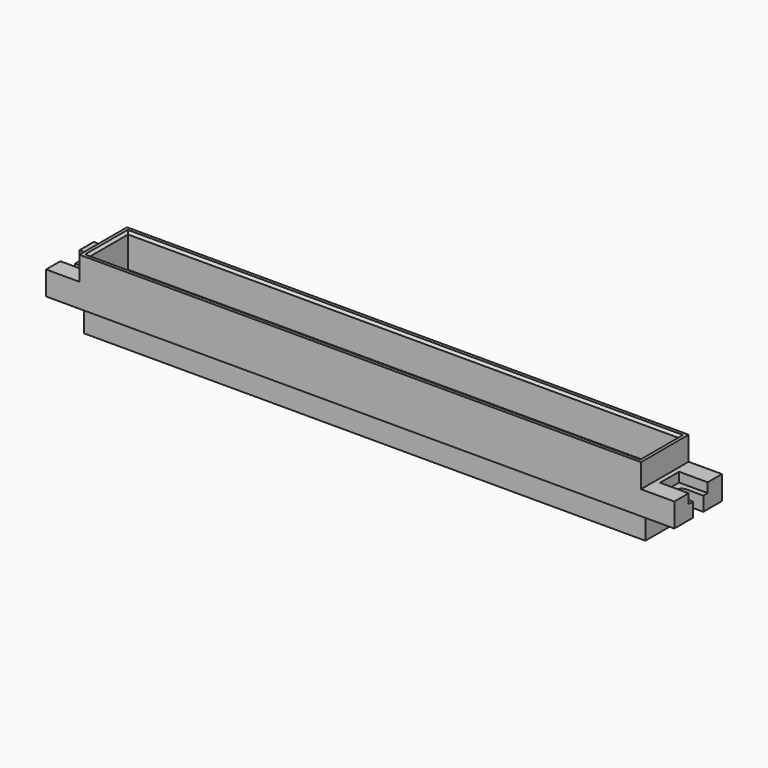
from build123d import *

# Parameters (mm, degrees)
BOX004_W          = 10
BOX004_H          = 14
BOX004_DEPTH      = 10
BOX006_W          = 10
BOX006_H          = 2.7
BOX006_DEPTH      = 10
BOX003_W          = 10
BOX003_H          = 14
BOX003_DEPTH      = 10
CYLINDER_R        = 1.35
CYLINDER_DEPTH    = 10
BOX005_W          = 10
BOX005_H          = 2.7
BOX005_DEPTH      = 10
CYLINDER001_R     = 1.35
CYLINDER001_DEPTH = 10
BOX007_W          = 10
BOX007_H          = 5
BOX007_DEPTH      = 10
BOX008_W          = 10
BOX008_H          = 5
BOX008_DEPTH      = 10
BOX002_W          = 115.7
BOX002_H          = 10.2
BOX002_DEPTH      = 7
BOX_W             = 132
BOX_H             = 12.5
BOX_DEPTH         = 10
BOX001_W          = 118
BOX001_H          = 10.2
BOX001_DEPTH      = 5
CHAMFER_SIZE      = 0.5


with BuildPart() as box004:
    # Box004 → Box004 (new body)
    with BuildSketch(Plane(origin=(118, -2, 10), x_dir=(1, 0, 0), z_dir=(0, 0, 1))):
        with Locations((5, 7)):
            Rectangle(BOX004_W, BOX004_H)
    extrude(amount=BOX004_DEPTH)


with BuildPart() as box006:
    # Box006 → Box006 (new body)
    with BuildSketch(Plane(origin=(121.5, 3.76, 0), x_dir=(1, 0, 0), z_dir=(0, 0, 1))):
        with Locations((5, 1.35)):
            Rectangle(BOX006_W, BOX006_H)
    extrude(amount=BOX006_DEPTH)


with BuildPart() as box003:
    # Box003 → Box003 (new body)
    with BuildSketch(Plane(origin=(-10, -2, 10), x_dir=(1, 0, 0), z_dir=(0, 0, 1))):
        with Locations((5, 7)):
            Rectangle(BOX003_W, BOX003_H)
    extrude(amount=BOX003_DEPTH)


with BuildPart() as cylinder:
    # Cylinder → Cylinder (new body)
    with BuildSketch(Plane(origin=(-3.5, 5.1, 0), x_dir=(1, 0, 0), z_dir=(0, 0, 1))):
        Circle(CYLINDER_R)
    extrude(amount=CYLINDER_DEPTH)


with BuildPart() as box005:
    # Box005 → Box005 (new body)
    with BuildSketch(Plane(origin=(-13.3, 3.76, 0), x_dir=(1, 0, 0), z_dir=(0, 0, 1))):
        with Locations((5, 1.35)):
            Rectangle(BOX005_W, BOX005_H)
    extrude(amount=BOX005_DEPTH)


with BuildPart() as cylinder001:
    # Cylinder001 → Cylinder001 (new body)
    with BuildSketch(Plane(origin=(121.5, 5.1, 0), x_dir=(1, 0, 0), z_dir=(0, 0, 1))):
        Circle(CYLINDER001_R)
    extrude(amount=CYLINDER001_DEPTH)


with BuildPart() as box007:
    # Box007 → Box007 (new body)
    with BuildSketch(Plane(origin=(-11, 2.6, 8), x_dir=(1, 0, 0), z_dir=(0, 0, 1))):
        with Locations((5, 2.5)):
            Rectangle(BOX007_W, BOX007_H)
    extrude(amount=BOX007_DEPTH)


with BuildPart() as box008:
    # Box008 → Box008 (new body)
    with BuildSketch(Plane(origin=(119, 2.6, 8), x_dir=(1, 0, 0), z_dir=(0, 0, 1))):
        with Locations((5, 2.5)):
            Rectangle(BOX008_W, BOX008_H)
    extrude(amount=BOX008_DEPTH)


with BuildPart() as fusion:
    # Box002 → Box002 (new body)
    with BuildSketch(Plane(origin=(1.15, 0, 8), x_dir=(1, 0, 0), z_dir=(0, 0, 1))):
        with Locations((57.85, 5.1)):
            Rectangle(BOX002_W, BOX002_H)
    extrude(amount=BOX002_DEPTH)

    # Fusion: union Box004, Box006, Box003, Cylinder, Box005, Cylinder001, Box007, Box008
    add(box004.part)
    add(box006.part)
    add(box003.part)
    add(cylinder.part)
    add(box005.part)
    add(cylinder001.part)
    add(box007.part)
    add(box008.part)


with BuildPart() as box:
    # Box → Box (new body)
    with BuildSketch(Plane(origin=(-7, -1.15, 5), x_dir=(1, 0, 0), z_dir=(0, 0, 1))):
        with Locations((66, 6.25)):
            Rectangle(BOX_W, BOX_H)
    extrude(amount=BOX_DEPTH)


with BuildPart() as chamfer_body:
    # Box001 → Box001 (new body)
    with BuildSketch(Plane.XY):
        with Locations((59, 5.1)):
            Rectangle(BOX001_W, BOX001_H)
    extrude(amount=BOX001_DEPTH)

    # Fusion001: union Box
    add(box.part)

    # Cut: cut Fusion
    add(fusion.part, mode=Mode.SUBTRACT)

    # Chamfer
    chamfer_edges = [chamfer_body.edges().sort_by_distance(p)[0] for p in [
        (1.15, 5.1, 15),
        (59, 0, 15),
        (116.85, 5.1, 15),
        (59, 10.2, 15),
    ]]
    chamfer(chamfer_edges, length=CHAMFER_SIZE)


solid = chamfer_body.part
